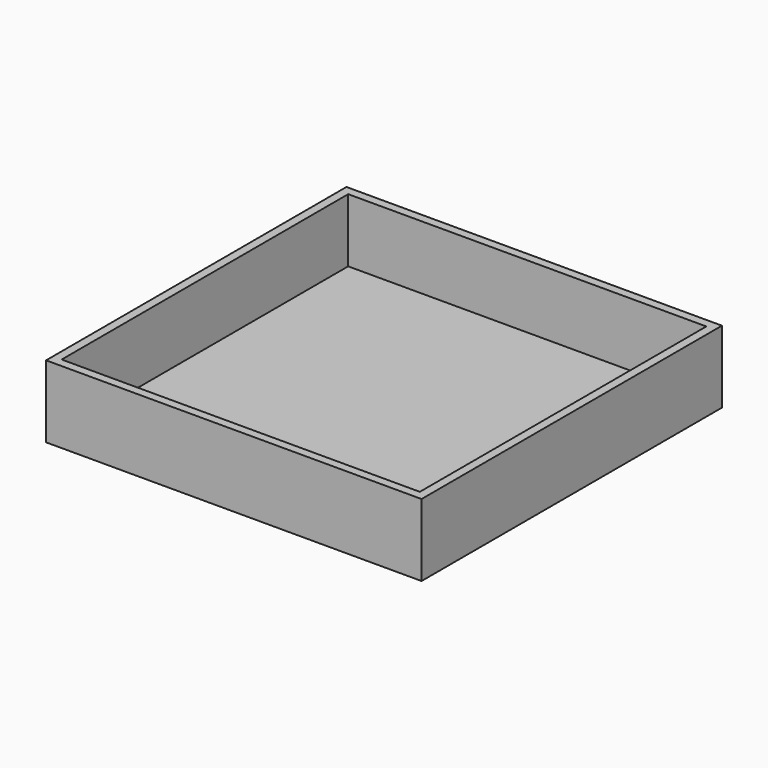
from build123d import *

# Parameters (mm, degrees)
F1_DEPTH = 25
F0_W     = 124
F0_H     = 124
F2_DEPTH = 3


with BuildPart() as f1:
    # F0 (on Top) → F1 (new body)
    with BuildSketch(Plane.XY):
        Polygon((47.188934, 11.061991), (-47.153505, 11.061991), (-47.153505, 8.061991), (76.846495, 8.061991), (76.846495, 11.061991), (57.846495, 11.061991), align=None)
        Polygon((-47.153505, 11.061991), (-50.153505, 11.061991), (-50.153505, 9.061991), (-50.153505, -116.938009), (-50.153505, -118.938009), (-47.153505, -118.938009), (-47.153505, -115.938009), (-47.153505, 8.061991), align=None)
        Polygon((76.846495, -115.938009), (-47.153505, -115.938009), (-47.153505, -118.938009), (47.188934, -118.938009), (76.846495, -118.938009), align=None)
        Polygon((76.846495, 11.061991), (76.846495, 8.061991), (76.846495, -115.938009), (76.846495, -118.938009), (79.846495, -118.938009), (79.846495, -116.938009), (79.846495, 11.061991), align=None)
    extrude(amount=F1_DEPTH)

    # F0 (on Top) → F2 (join)
    with BuildSketch(Plane.XY):
        with Locations((14.846495, -53.938009)):
            Rectangle(F0_W, F0_H)
    extrude(amount=F2_DEPTH)


solid = f1.part
